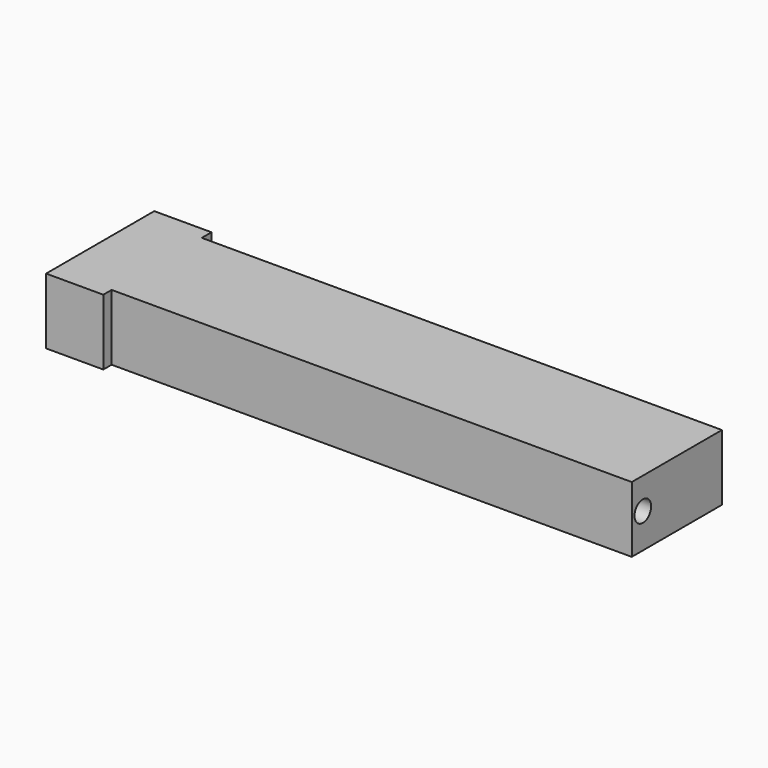
from build123d import *

# Parameters (mm, degrees)
SKETCH004_R             = 0.6
SWEEP_ROLL_ANGLE        = -90
CYLINDER006_R           = 0.6
CYLINDER006_DEPTH       = 30
CYLINDER006_PITCH_ANGLE = 90
BOX013_W                = 3.3
BOX013_H                = 7.8
BOX013_DEPTH            = 3.8
BOX012_W                = 30
BOX012_H                = 6.5
BOX012_DEPTH            = 3.8
CUT004_PLACEMENT_ANGLE  = 180


with BuildPart() as sweep_body:
    # Sweep: sweep along a path in Sketch002
    with BuildLine(Plane.XY) as sweep_path:
        Line((0, 0), (2.000007, 0))
        ThreePointArc((2.000007, 0), (3.413537, 0.585387), (3.999404, 1.998718))
        Line((3.999404, 1.998718), (3.999404, 3.99963))
    # Sketch004 → Sweep (sweep)
    with BuildSketch(Plane.YZ):
        Circle(SKETCH004_R)
    sweep(path=sweep_path.line, transition=Transition.RIGHT)


with BuildPart() as sweep_body_1:
    # Sweep roll: moved
    add(sweep_body.part.rotate(Axis((0, 0, 0), (1, 0, 0)), SWEEP_ROLL_ANGLE))


with BuildPart() as sweep_body_2:
    # Sweep placement: moved
    add(sweep_body_1.part.moved(Location((11, 3.4, 2))))


with BuildPart() as fusion002005:
    # Cylinder006 → Cylinder006 (new body)
    with BuildSketch(Plane.XY):
        Circle(CYLINDER006_R)
    extrude(amount=CYLINDER006_DEPTH)


with BuildPart() as fusion002005_1:
    # Cylinder006 pitch: moved
    add(fusion002005.part.rotate(Axis((0, 0, 0), (0, 1, 0)), CYLINDER006_PITCH_ANGLE))


with BuildPart() as fusion002005_2:
    # Cylinder006 placement: moved
    add(fusion002005_1.part.moved(Location((-17, 3.4, 2))))

    # Fusion002005: union Sweep body
    add(sweep_body_2.part)


with BuildPart() as fusion002005_3:
    # Fusion002005 placement: moved
    add(fusion002005_2.part.moved(Location((-1.3, 2.5, 0))))


with BuildPart() as cubo013:
    # Box013 → Box013 (new body)
    with BuildSketch(Plane(origin=(12, -0.5, 0), x_dir=(1, 0, 0), z_dir=(0, 0, 1))):
        with Locations((1.65, 3.9)):
            Rectangle(BOX013_W, BOX013_H)
    extrude(amount=BOX013_DEPTH)


with BuildPart() as cut004:
    # Box012 → Box012 (new body)
    with BuildSketch(Plane(origin=(-18, 0.2, 0), x_dir=(1, 0, 0), z_dir=(0, 0, 1))):
        with Locations((15, 3.25)):
            Rectangle(BOX012_W, BOX012_H)
    extrude(amount=BOX012_DEPTH)

    # Fusion002004: union Cubo013
    add(cubo013.part)

    # Cut004: cut Fusion002005
    add(fusion002005_3.part, mode=Mode.SUBTRACT)


with BuildPart() as cut004_1:
    # Cut004 placement: moved
    add(cut004.part.moved(Location((0.3, -7.1, 1))).rotate(Axis((0.3, -7.1, 1), (0, 0, 1)), CUT004_PLACEMENT_ANGLE))


solid = cut004_1.part
